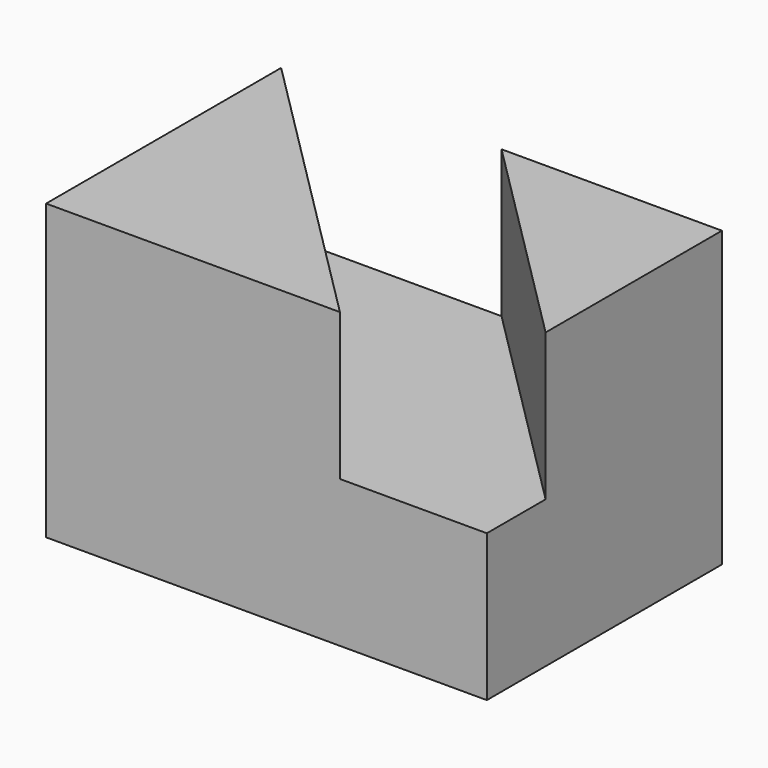
from build123d import *

# Parameters (mm, degrees)
F0_W     = 38.1
F0_H     = 25.4
F1_DEPTH = 12.7
F2_W     = 6.35
F2_H     = 12.7
F3_DEPTH = 12.7
F5_DEPTH = 12.7


with BuildPart() as f1:
    # F0 (on Front) → F1 (new body, symmetric)
    with BuildSketch(Plane.XZ):
        with Locations((19.05, 12.7)):
            Rectangle(F0_W, F0_H)
    extrude(amount=F1_DEPTH, both=True)

    # F2 (on face) → F3 (cut)
    with BuildSketch(Plane.YZ.offset(38.1)):
        with Locations((-9.525, 19.05)):
            Rectangle(F2_W, F2_H)
    extrude(amount=-F3_DEPTH, mode=Mode.SUBTRACT)

    # F4 (on face) → F5 (cut)
    with BuildSketch(Plane.XY.offset(25.4)):
        Polygon((0, 12.7), (25.4, -12.7), (25.4, -6.35), (38.1, -6.35), (19.05, 12.7), align=None)
    extrude(amount=-F5_DEPTH, mode=Mode.SUBTRACT)


solid = f1.part
